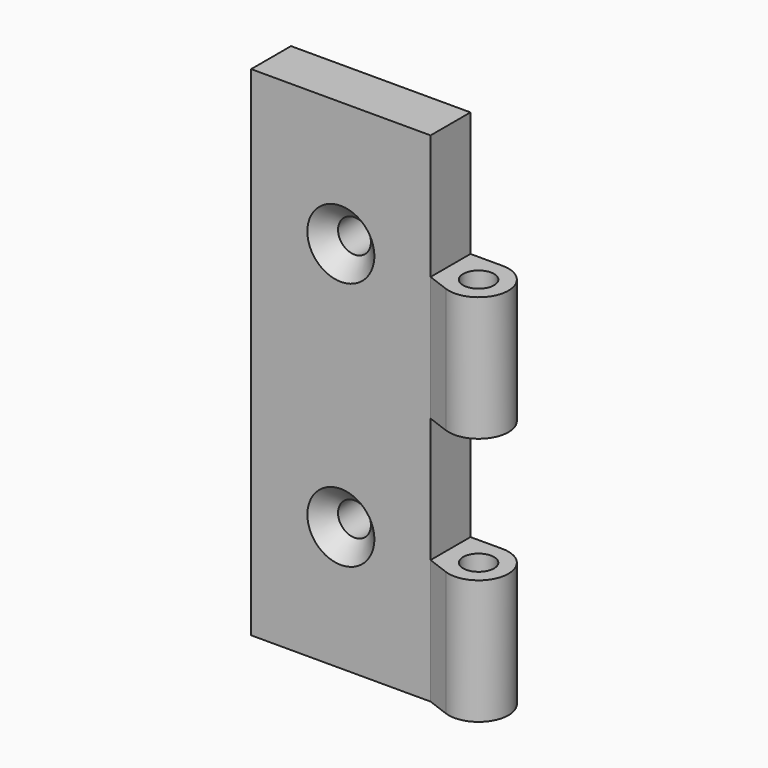
from build123d import *

# Parameters (mm, degrees)
F0_W           = 18
F0_H           = 50
F1_DEPTH       = 5
F2_R           = 1.55
F3_DEPTH       = 12.5
F5_R           = 1.55
F6_DEPTH       = 12.5
F8_D           = 3.3
F8_DEPTH       = 40
F8_CSINK_D     = 6.72
F8_CSINK_ANGLE = 90
F8_TIP         = 0.9914200214


with BuildPart() as f1:
    # F0 (on Front) → F1 (new body)
    with BuildSketch(Plane.XZ):
        with Locations((9, 25)):
            Rectangle(F0_W, F0_H)
    extrude(amount=F1_DEPTH)

    # F2 (on face) → F3 (join)
    with BuildSketch(Plane(origin=(0, 0, 0), x_dir=(1, 0, 0), z_dir=(0, 0, -1))):
        with BuildLine():
            Line((18, 0), (21.2150048465, 0))
            ThreePointArc((21.2150048465, 0), (24.1698076743, 3.5187872861), (20.1930620863, 5.8205731678))
            Line((20.1930620863, 5.8205731678), (18, 5))
            Line((18, 5), (18, 0))
        make_face()
        with Locations((21.2150048465, 3)):
            Circle(F2_R, mode=Mode.SUBTRACT)
    extrude(amount=-F3_DEPTH)

    # F5 (on offset) → F6 (join)
    with BuildSketch(Plane.XY.offset(25)):
        with BuildLine():
            Line((18, 0), (18, -5))
            Line((18, -5), (20.1930620863, -5.8205731678))
            ThreePointArc((20.1930620863, -5.8205731678), (24.1698076743, -3.5187872861), (21.2150048465, 0))
            Line((21.2150048465, 0), (18, 0))
        make_face()
        with Locations((21.2150048465, -3)):
            Circle(F5_R, mode=Mode.SUBTRACT)
    extrude(amount=F6_DEPTH)

    # F8
    with Locations(Plane.XZ.offset(5)):
        with Locations((9, 37.5), (9, 12.5)):
            CounterSinkHole(F8_D / 2, F8_CSINK_D / 2, depth=F8_DEPTH, counter_sink_angle=F8_CSINK_ANGLE)
            with Locations((0, 0, -(F8_DEPTH + F8_TIP / 2))):  # 118° drill point
                Cone(0, F8_D / 2, F8_TIP, mode=Mode.SUBTRACT)


solid = f1.part
